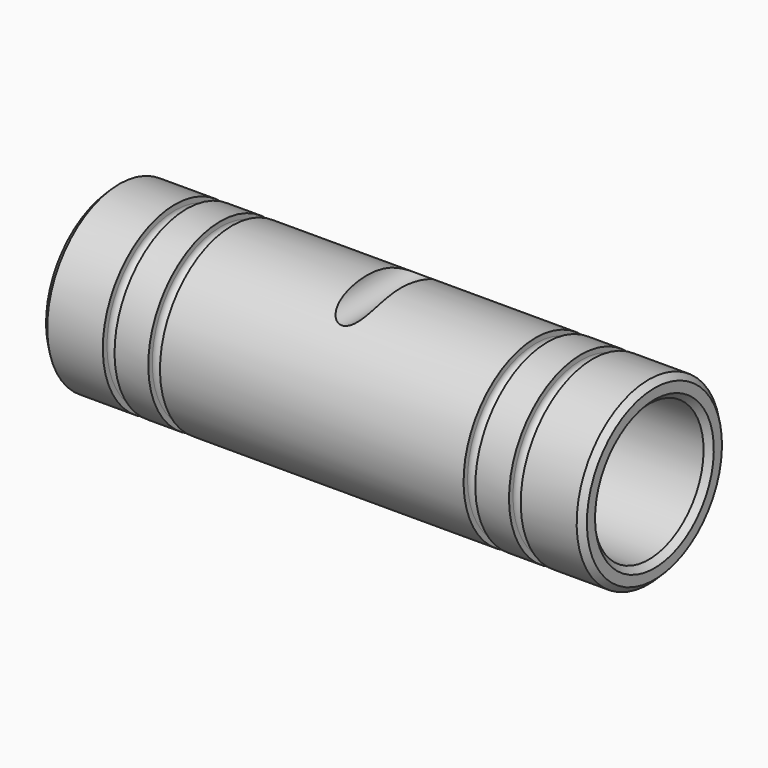
from build123d import *

# Parameters (mm, degrees)
F2_R          = 2.4003
F2_R_2        = 2.394
F3_DEPTH      = 12.6885
F3_DEPTH_BACK = 12.6885


with BuildPart() as f1:
    # F0 (on Front) → F1 (revolve)
    with BuildSketch(Plane.XZ):
        with BuildLine():
            Line((0, 11.8375), (0, 10.452))
            Line((0, 10.452), (0.8, 9.652))
            Line((0.8, 9.652), (75.4, 9.652))
            Line((75.4, 9.652), (76.2, 10.452))
            Line((76.2, 10.452), (76.2, 11.8875))
            Line((76.2, 11.8875), (75.4, 12.6875))
            Line((75.4, 12.6875), (67.5255, 12.6875))
            Line((67.5255, 12.6875), (67.5255, 11.9875))
            ThreePointArc((67.5255, 11.9875), (66.7, 11.162), (65.8745, 11.9875))
            Line((65.8745, 11.9875), (65.8745, 12.6875))
            Line((65.8745, 12.6875), (61.1255, 12.6875))
            Line((61.1255, 12.6875), (61.1255, 11.9875))
            ThreePointArc((61.1255, 11.9875), (60.3, 11.162), (59.4745, 11.9875))
            Line((59.4745, 11.9875), (59.4745, 12.6875))
            Line((59.4745, 12.6875), (40.5575, 12.6875))
            Line((40.5575, 12.6875), (35.6425, 12.6875))
            Line((35.6425, 12.6875), (16.7255, 12.6875))
            Line((16.7255, 12.6875), (16.7255, 11.9875))
            ThreePointArc((16.7255, 11.9875), (15.9, 11.162), (15.0745, 11.9875))
            Line((15.0745, 11.9875), (15.0745, 12.6875))
            Line((15.0745, 12.6875), (10.3255, 12.6875))
            Line((10.3255, 12.6875), (10.3255, 11.95))
            ThreePointArc((10.3255, 11.95), (9.5, 11.1245), (8.6745, 11.95))
            Line((8.6745, 11.95), (8.6745, 12.6875))
            Line((8.6745, 12.6875), (0.85, 12.6875))
            Line((0.85, 12.6875), (0, 11.8375))
        make_face()
    revolve(axis=Axis((-30.9017514117, 0, 0), (-1, 0, 0)))

    # F2 (on Front) → F3 (cut, two sides)
    with BuildSketch(Plane.XZ) as f3_sk:
        with Locations((38.1, 12.6875)):
            Circle(F2_R)
        with Locations((38.1, -12.6875)):
            Circle(F2_R_2)
    extrude(amount=-F3_DEPTH, mode=Mode.SUBTRACT)
    extrude(f3_sk.sketch, amount=F3_DEPTH_BACK, mode=Mode.SUBTRACT)


solid = f1.part
